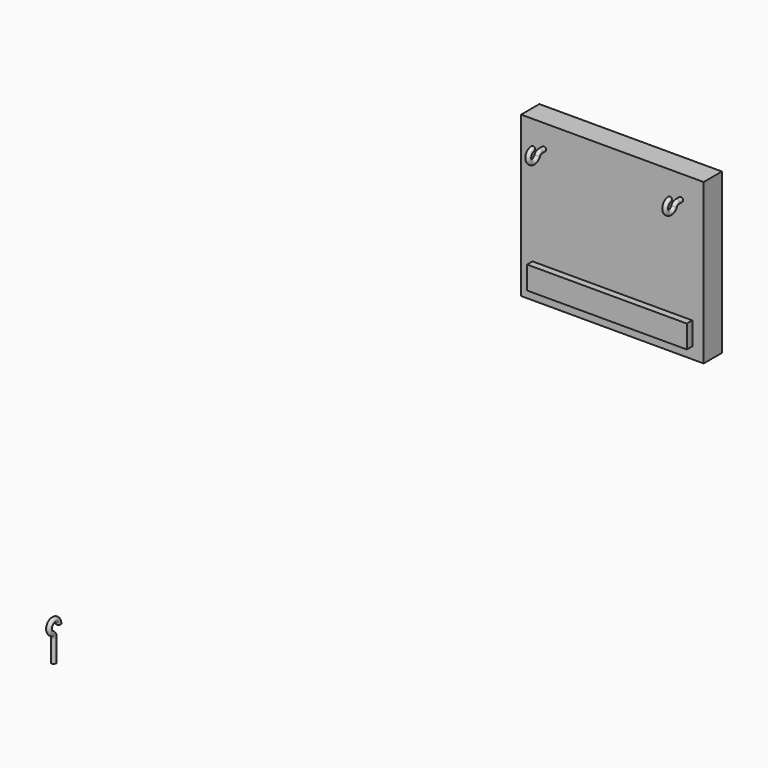
from build123d import *

# Parameters (mm, degrees)
F0_W     = 80
F0_H     = 70
F1_DEPTH = 10
F5_R     = 1
F8_W     = 70
F8_H     = 10
F9_DEPTH = 3
F12_R    = 1


with BuildPart() as f1:
    # F0 (on Front) → F1 (new body)
    with BuildSketch(Plane.XZ):
        with Locations((0, 25)):
            Rectangle(F0_W, F0_H)
    extrude(amount=-F1_DEPTH)

    # F6: sweep along a path in F4
    with BuildLine(Plane.YZ.offset(-30)) as f6_path:
        Line((0, 50), (-2, 50))
        ThreePointArc((-2, 50), (-2.9765905118, 49.7116676993), (-3.6399699826, 48.9391444175))
        ThreePointArc((-3.6399699826, 48.9391444175), (-8.1725699148, 48.5946188363), (-6, 52.5875))
    # F5 (on face) → F6 (sweep)
    with BuildSketch(Plane.XZ):
        with Locations((-30, 50)):
            Circle(F5_R)
    sweep(path=f6_path.line)

    # F7: F1 across plane


with BuildPart() as f1_1:
    add(f1.part)
    add(f1.part.mirror(Plane.YZ))

    # F8 (on face) → F9 (join)
    with BuildSketch(Plane.XZ):
        Rectangle(F8_W, F8_H)
    extrude(amount=F9_DEPTH)


with BuildPart() as f1_2:
    # F10: moved
    add(f1_1.part.moved(Location((0, 6, 0))))


with BuildPart() as f13:
    # F13: sweep along a path in F11
    with BuildLine(Plane.YZ) as f13_path:
        Line((-300, -14), (-300, -4))
        ThreePointArc((-300, -4), (-300.2883323007, -3.0234094882), (-301.0608555825, -2.3600300174))
        ThreePointArc((-301.0608555825, -2.3600300174), (-301.4053811637, 2.1725699148), (-297.4125, 0))
    # F12 (on Top) → F13 (sweep)
    with BuildSketch(Plane.XY):
        with Locations((0, -297.4125)):
            Circle(F12_R)
    sweep(path=f13_path.line)


solid = Compound([f1_2.part, f13.part])
